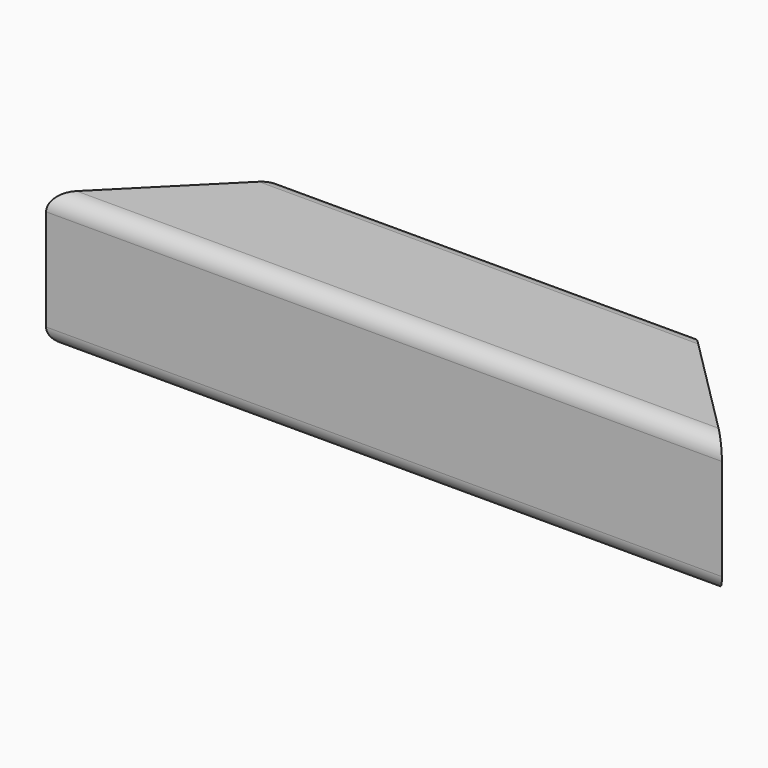
from build123d import *

# Parameters (mm, degrees)
F1_DEPTH = 200
F3_DEPTH = 80.001


with BuildPart() as f1:
    # F0 (on Right) → F1 (new body, symmetric)
    with BuildSketch(Plane.YZ):
        with BuildLine():
            ThreePointArc((40, 30), (37.071068, 37.071068), (30, 40))
            Line((30, 40), (-30, 40))
            ThreePointArc((-30, 40), (-37.071068, 37.071068), (-40, 30))
            Line((-40, 30), (-40, -30))
            ThreePointArc((-40, -30), (-37.071068, -37.071068), (-30, -40))
            Line((-30, -40), (30, -40))
            ThreePointArc((30, -40), (37.071068, -37.071068), (40, -30))
            Line((40, -30), (40, 30))
        make_face()
        with BuildLine():
            ThreePointArc((30, 35), (33.535534, 33.535534), (35, 30))
            Line((35, 30), (35, -30))
            ThreePointArc((35, -30), (33.535534, -33.535534), (30, -35))
            Line((30, -35), (-30, -35))
            ThreePointArc((-30, -35), (-33.535534, -33.535534), (-35, -30))
            Line((-35, -30), (-35, 30))
            ThreePointArc((-35, 30), (-33.535534, 33.535534), (-30, 35))
            Line((-30, 35), (30, 35))
        make_face(mode=Mode.SUBTRACT)
    extrude(amount=F1_DEPTH, both=True)

    # F2 (on face) → F3 (cut, through all)
    with BuildSketch(Plane.XY.offset(40)):
        Polygon((-200, 40), (-200, -40), (-120, 40), align=None)
        Polygon((200, -40), (200, 40), (120, 40), align=None)
    extrude(amount=-F3_DEPTH, mode=Mode.SUBTRACT)


solid = f1.part
